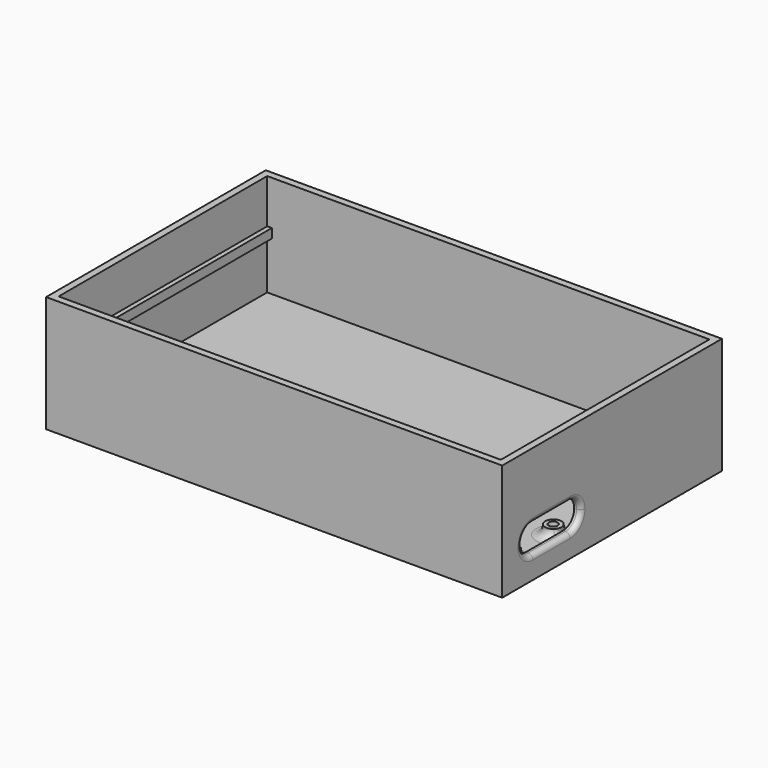
from build123d import *

# Parameters (mm, degrees)
SKETCH027_W     = 98
SKETCH027_H     = 59
PAD014_DEPTH    = 25
SKETCH028_W     = 95
SKETCH028_H     = 56
POCKET008_DEPTH = 22
SKETCH029_W     = 56
SKETCH029_H     = 2
PAD015_DEPTH    = 1
SKETCH030_W     = 56.025157
SKETCH030_H     = 2
PAD016_DEPTH    = 1
SKETCH031_R     = 1.75
PAD017_DEPTH    = 2
SKETCH032_R     = 0.95
POCKET009_DEPTH = 3
FILLET003_R     = 1.9
POCKET010_DEPTH = 3
FILLET004_R     = 1


with BuildPart() as part:
    # Sketch027 → Pad014 (new body)
    with BuildSketch(Plane.XY):
        Rectangle(SKETCH027_W, SKETCH027_H)
    extrude(amount=PAD014_DEPTH)

    # Sketch028 (on Face6 of Pad014) → Pocket008 (cut)
    with BuildSketch(Plane.XY.offset(25)):
        Rectangle(SKETCH028_W, SKETCH028_H)
    extrude(amount=-POCKET008_DEPTH, mode=Mode.SUBTRACT)

    # Sketch029 (on Face9 of Pocket008) → Pad015 (join)
    with BuildSketch(Plane.YZ.offset(-47.5)):
        with Locations((0, 14.5)):
            Rectangle(SKETCH029_W, SKETCH029_H)
    extrude(amount=PAD015_DEPTH)

    # Sketch030 (on Face7 of Pad015) → Pad016 (join)
    with BuildSketch(Plane(origin=(47.5, 0, 0), x_dir=(0, -1, 0), z_dir=(-1, 0, 0))):
        with Locations((0.0125785, 14.5)):
            Rectangle(SKETCH030_W, SKETCH030_H)
    extrude(amount=PAD016_DEPTH)

    # Sketch031 (on Face16 of Pad016) → Pad017 (join)
    with BuildSketch(Plane.XY.offset(3)):
        with Locations((-2, -10.78)):
            Circle(SKETCH031_R)
        with Locations((45, -10.78)):
            Circle(SKETCH031_R)
        with Locations((45, -22.21)):
            Circle(SKETCH031_R)
        with Locations((-2, -22.21)):
            Circle(SKETCH031_R)
    extrude(amount=PAD017_DEPTH)

    # Sketch032 (on Face26 of Pad017) → Pocket009 (cut)
    with BuildSketch(Plane.XY.offset(5)):
        with Locations((-2.01, -10.76)):
            Circle(SKETCH032_R)
        with Locations((-2.01, -22.21)):
            Circle(SKETCH032_R)
        with Locations((44.95, -22.21)):
            Circle(SKETCH032_R)
        with Locations((44.95, -10.76)):
            Circle(SKETCH032_R)
    extrude(amount=-POCKET009_DEPTH, mode=Mode.SUBTRACT)

    # Fillet003
    fillet003_edges = [part.edges().sort_by_distance(p)[0] for p in [
        (-3.75, -10.78, 3),
        (-3.75, -22.21, 3),
        (43.25, -10.78, 3),
        (43.25, -22.21, 3),
    ]]
    fillet(fillet003_edges, radius=FILLET003_R)

    # Sketch033 (on Face2 of Fillet003) → Pocket010 (cut)
    with BuildSketch(Plane(origin=(47.5, 0, 0), x_dir=(0, -1, 0), z_dir=(-1, 0, 0))):
        with BuildLine():
            Line((8.293246951, 7.809269951), (8.293246951, 7.783904049))
            ThreePointArc((8.293246951, 7.783904049), (9.1682118571, 5.6715519061), (11.280564, 4.796587))
            Line((11.280564, 4.796587), (21.280564, 4.796587))
            ThreePointArc((21.280564, 4.796587), (23.3929161429, 5.6715519061), (24.267881049, 7.783904049))
            Line((24.267881049, 7.783904049), (24.267881049, 7.809269951))
            ThreePointArc((24.267881049, 7.809269951), (23.3929161429, 9.9216220939), (21.280564, 10.796587))
            Line((21.280564, 10.796587), (11.280564, 10.796587))
            ThreePointArc((11.280564, 10.796587), (9.1682118571, 9.9216220939), (8.293246951, 7.809269951))
        make_face()
    extrude(amount=-POCKET010_DEPTH, mode=Mode.SUBTRACT)

    # Fillet004
    fillet004_edges = [part.edges().sort_by_distance(p)[0] for p in [
        (49, -9.168212, 9.921622),
        (49, -9.168212, 5.671552),
        (49, -16.280564, 4.796587),
        (49, -16.280564, 10.796587),
        (49, -23.392916, 9.921622),
        (49, -23.392916, 5.671552),
    ]]
    fillet(fillet004_edges, radius=FILLET004_R)


solid = part.part
